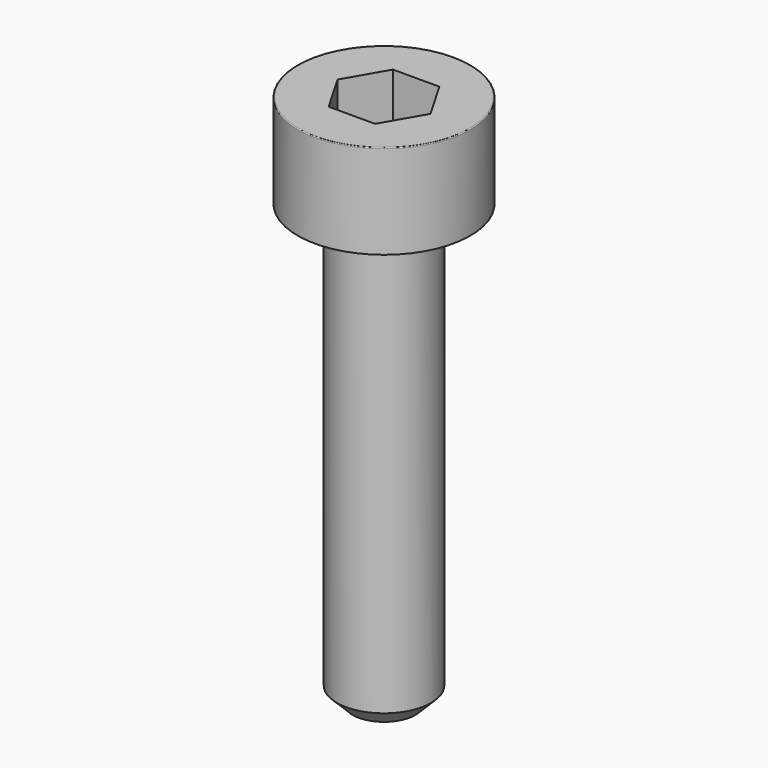
from build123d import *

# Parameters (mm, degrees)
POCKET_DEPTH = 2.56


with BuildPart() as part:
    # Sketch → Revolve (revolve)
    with BuildSketch(Plane.YZ):
        with BuildLine():
            Line((1.499, 0), (2.75, 0))
            Line((2.75, 0), (2.75, 2.97229))
            ThreePointArc((2.75, 2.97229), (2.741884, 2.991884), (2.72229, 3))
            Line((2.72229, 3), (0, 3))
            Line((0, -14), (0, 3))
            Line((1, -14), (0, -14))
            Line((1.5, -13.5), (1, -14))
            Line((1.5, -0.2), (1.5, -13.5))
            Line((1.499, 0), (1.5, -0.2))
        make_face()
    revolve(axis=Axis((0, 0, 0), (0, 0, 1)))

    # Sketch001 → Pocket (cut)
    with BuildSketch(Plane.XY.offset(3)):
        Polygon((1.478017, 0), (0.739008, 1.28), (-0.739008, 1.28), (-1.478017, 0), (-0.739008, -1.28), (0.739008, -1.28), align=None)
    extrude(amount=-POCKET_DEPTH, mode=Mode.SUBTRACT)


solid = part.part
